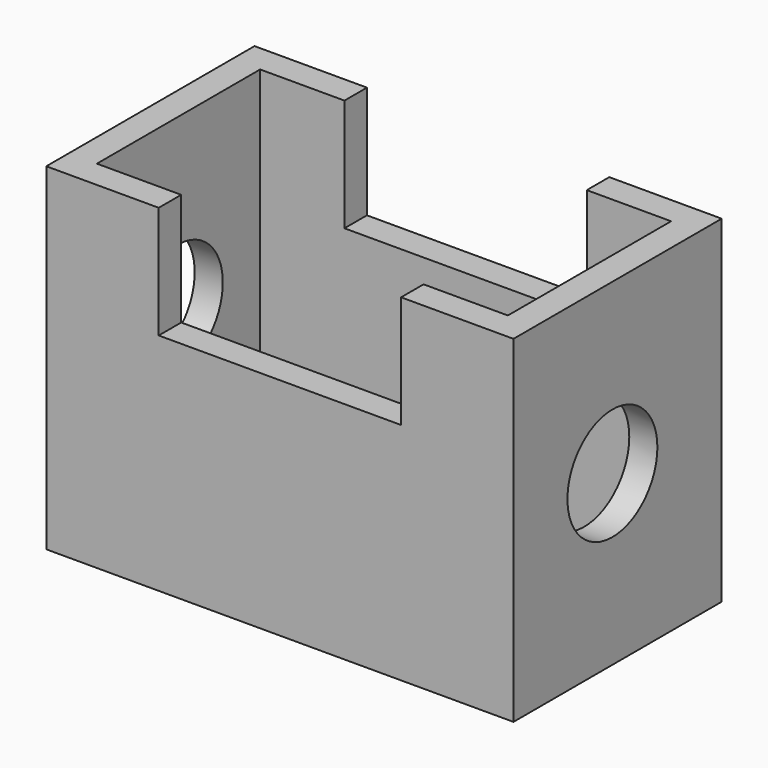
from build123d import *

# Parameters (mm, degrees)
F0_W     = 105.55536
F0_H     = 58.80253
F1_DEPTH = 76.2
F2_W     = 92.85536
F2_H     = 46.10253
F3_DEPTH = 76.2
F4_W     = 54.75536
F4_H     = 6.35
F5_DEPTH = 25.4
F6_R     = 12.7
F7_DEPTH = 25.4
F8_R     = 12.7
F9_DEPTH = 25.4


with BuildPart() as f1:
    # F0 (on Top) → F1 (new body)
    with BuildSketch(Plane.XY):
        with Locations((2.530435, -10.00125)):
            Rectangle(F0_W, F0_H)
    extrude(amount=F1_DEPTH)

    # F2 (on face) → F3 (cut, through all)
    with BuildSketch(Plane.XY.offset(76.2)):
        with Locations((2.530435, -10.00125)):
            Rectangle(F2_W, F2_H)
    extrude(amount=-F3_DEPTH, mode=Mode.SUBTRACT)

    # F4 (on face) → F5 (cut)
    with BuildSketch(Plane.XY.offset(76.2)):
        with Locations((2.530435, -36.227515)):
            Rectangle(F4_W, F4_H)
        with Locations((2.530435, 16.225015)):
            Rectangle(F4_W, F4_H)
    extrude(amount=-F5_DEPTH, mode=Mode.SUBTRACT)

    # F6 (on face) → F7 (cut)
    with BuildSketch(Plane.YZ.offset(55.308115)):
        with Locations((-11.462515, 38.1)):
            Circle(F6_R)
    extrude(amount=-F7_DEPTH, mode=Mode.SUBTRACT)

    # F8 (on face) → F9 (cut)
    with BuildSketch(Plane(origin=(-50.247245, 0, 0), x_dir=(0, -1, 0), z_dir=(-1, 0, 0))):
        with Locations((10.192515, 38.1)):
            Circle(F8_R)
    extrude(amount=-F9_DEPTH, mode=Mode.SUBTRACT)


solid = f1.part
